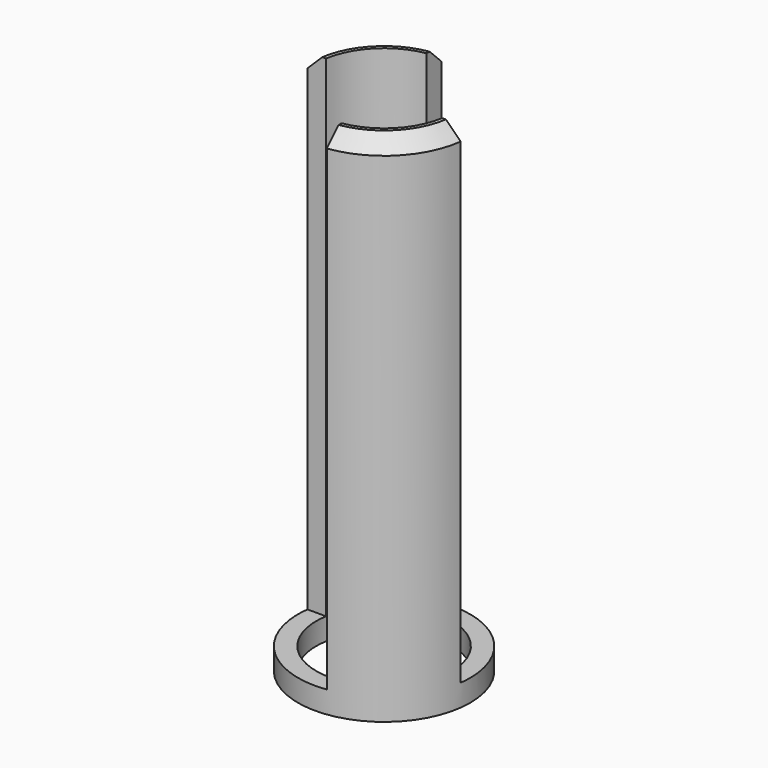
from build123d import *

# Parameters (mm, degrees)
SKETCH023_R             = 11.75
SKETCH023_R_2           = 9.25
PAD015_DEPTH            = 70
SKETCH025_W             = 31.48
SKETCH025_H             = 3
POCKET007_DEPTH         = 67
CHAMFER006_SIZE         = 2
SKETCH024_W             = 13.153862
SKETCH024_H             = 12.44
POCKET006_DEPTH         = 67
BODY013_PLACEMENT_ANGLE = 180


with BuildPart() as part:
    # Sketch023 → Pad015 (new body)
    with BuildSketch(Plane.XY):
        Circle(SKETCH023_R)
        Circle(SKETCH023_R_2, mode=Mode.SUBTRACT)
    extrude(amount=PAD015_DEPTH)

    # Sketch025 (on Face3 of Pad015) → Pocket007 (cut)
    with BuildSketch(Plane(origin=(0, 0, 0), x_dir=(1, 0, 0), z_dir=(0, 0, -1))):
        Rectangle(SKETCH025_W, SKETCH025_H)
    extrude(amount=-POCKET007_DEPTH, mode=Mode.SUBTRACT)

    # Chamfer006
    chamfer006_edges = [part.edges().sort_by_distance(p)[0] for p in [
        (0, 11.75, 0),
        (0, -11.75, 0),
    ]]
    chamfer(chamfer006_edges, length=CHAMFER006_SIZE)

    # Sketch024 (on Face11 of Chamfer006) → Pocket006 (cut)
    with BuildSketch(Plane(origin=(0, 0, 0), x_dir=(1, 0, 0), z_dir=(0, 0, -1))):
        with Locations((5.076931, 7.72)):
            Rectangle(SKETCH024_W, SKETCH024_H)
        with Locations((-5.076931, -7.72)):
            Rectangle(SKETCH024_W, SKETCH024_H)
    extrude(amount=-POCKET006_DEPTH, mode=Mode.SUBTRACT)


with BuildPart() as part_1:
    # Body013 placement: moved
    add(part.part.moved(Location((0, 0, -141))).rotate(Axis((0, 0, -141), (1, 0, 0)), BODY013_PLACEMENT_ANGLE))


solid = part_1.part
